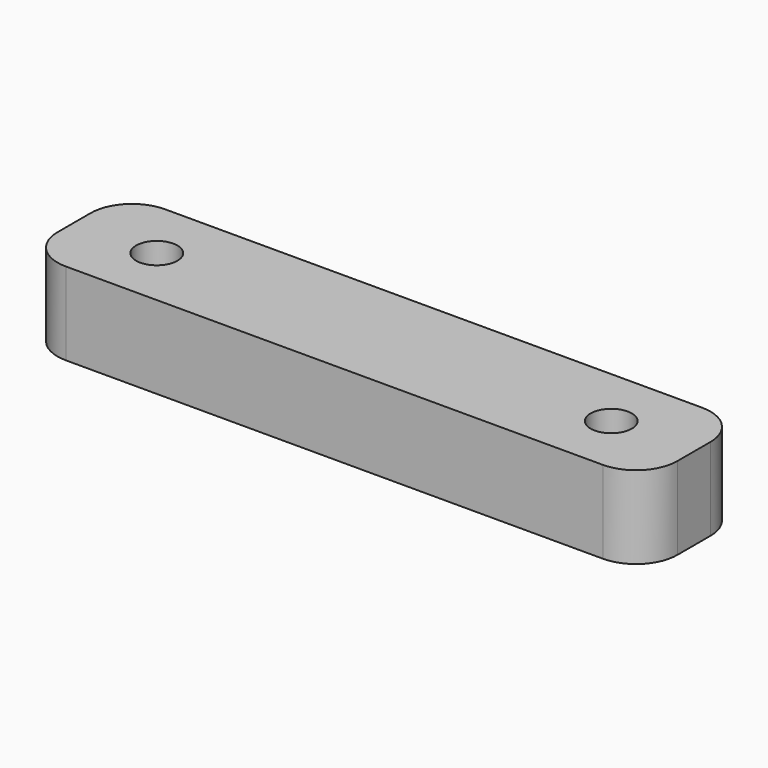
from build123d import *

# Parameters (mm, degrees)
F0_W     = 30
F0_H     = 6
F0_R     = 1
F1_DEPTH = 4
F2_R     = 2


with BuildPart() as f1:
    # F0 (on Top) → F1 (new body)
    with BuildSketch(Plane.XY):
        Rectangle(F0_W, F0_H)
        with Locations((-11, 0)):
            Circle(F0_R, mode=Mode.SUBTRACT)
        with Locations((11, 0)):
            Circle(F0_R, mode=Mode.SUBTRACT)
    extrude(amount=F1_DEPTH)

    # F2
    f2_edges = [f1.edges().sort_by_distance(p)[0] for p in [
        (-15, 3, 2),
        (-15, -3, 2),
        (15, 3, 2),
        (15, -3, 2),
    ]]
    fillet(f2_edges, radius=F2_R)


solid = f1.part
